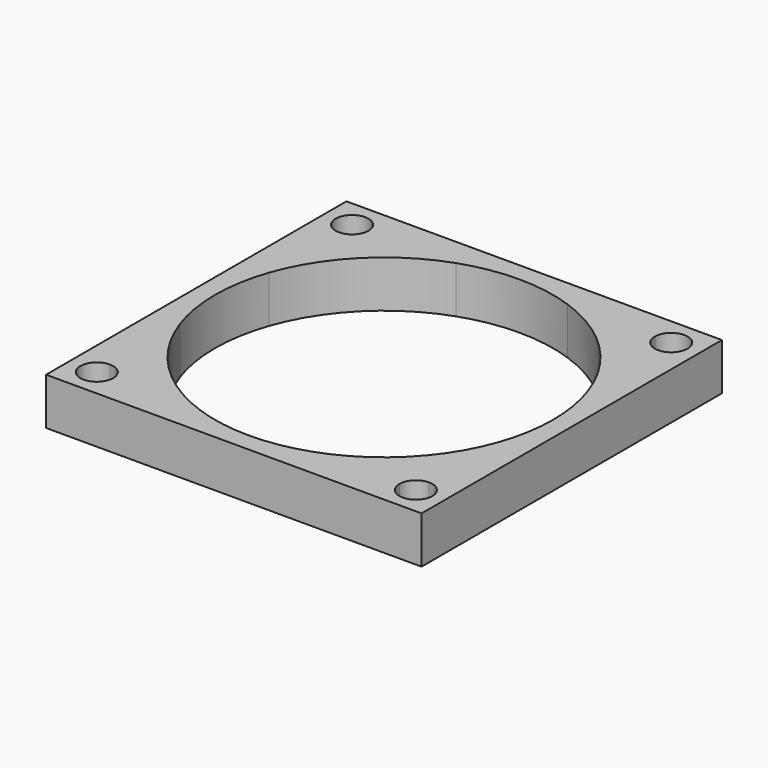
from build123d import *

# Parameters (mm, degrees)
F0_W     = 40
F0_H     = 40
F1_DEPTH = 5


with BuildPart() as f1:
    # F0 (on Top) → F1 (new body)
    with BuildSketch(Plane.XY):
        Rectangle(F0_W, F0_H)
        with BuildLine():
            ThreePointArc((-17, 15.25), (-18.2374368671, 18.2374368671), (-15.25, 17))
            Line((-15.25, 17), (-5.9483201826, 17))
            ThreePointArc((-5.9483201826, 17), (0, 18.0106222267), (5.9483201826, 17))
            Line((5.9483201826, 17), (15.25, 17))
            ThreePointArc((15.25, 17), (17, 18.75), (18.75, 17))
            ThreePointArc((18.75, 17), (18.2374368671, 15.7625631329), (17, 15.25))
            Line((17, 15.25), (17, 5.9483201826))
            ThreePointArc((17, 5.9483201826), (17.7561692216, 3.0167809947), (18.0106222267, 0))
            ThreePointArc((18.0106222267, 0), (17.7561692216, -3.0167809947), (17, -5.9483201826))
            Line((17, -5.9483201826), (17, -15.25))
            ThreePointArc((17, -15.25), (18.2374368671, -15.7625631329), (18.75, -17))
            ThreePointArc((18.75, -17), (17, -18.75), (15.25, -17))
            Line((15.25, -17), (5.9483201826, -17))
            ThreePointArc((5.9483201826, -17), (0, -18.0106222267), (-5.9483201826, -17))
            Line((-5.9483201826, -17), (-15.25, -17))
            ThreePointArc((-15.25, -17), (-18.2374368671, -18.2374368671), (-17, -15.25))
            Line((-17, -15.25), (-17, -5.9483201826))
            ThreePointArc((-17, -5.9483201826), (-18.0106222267, 0), (-17, 5.9483201826))
            Line((-17, 5.9483201826), (-17, 15.25))
        make_face(mode=Mode.SUBTRACT)
        with BuildLine():
            ThreePointArc((-5.9483201826, -17), (-12.7354331099, -12.7354331099), (-17, -5.9483201826))
            Line((-17, -5.9483201826), (-17, -15.25))
            ThreePointArc((-17, -15.25), (-15.7625631329, -15.7625631329), (-15.25, -17))
            Line((-15.25, -17), (-5.9483201826, -17))
        make_face()
        with BuildLine():
            Line((-5.9483201826, 17), (-15.25, 17))
            ThreePointArc((-15.25, 17), (-15.7625631329, 15.7625631329), (-17, 15.25))
            Line((-17, 15.25), (-17, 5.9483201826))
            ThreePointArc((-17, 5.9483201826), (-12.7354331099, 12.7354331099), (-5.9483201826, 17))
        make_face()
        with BuildLine():
            Line((15.25, 17), (5.9483201826, 17))
            ThreePointArc((5.9483201826, 17), (12.7354331099, 12.7354331099), (17, 5.9483201826))
            Line((17, 5.9483201826), (17, 15.25))
            ThreePointArc((17, 15.25), (15.7625631329, 15.7625631329), (15.25, 17))
        make_face()
        with BuildLine():
            Line((17, -15.25), (17, -5.9483201826))
            ThreePointArc((17, -5.9483201826), (12.7354331099, -12.7354331099), (5.9483201826, -17))
            Line((5.9483201826, -17), (15.25, -17))
            ThreePointArc((15.25, -17), (15.7625631329, -15.7625631329), (17, -15.25))
        make_face()
    extrude(amount=F1_DEPTH)


solid = f1.part
